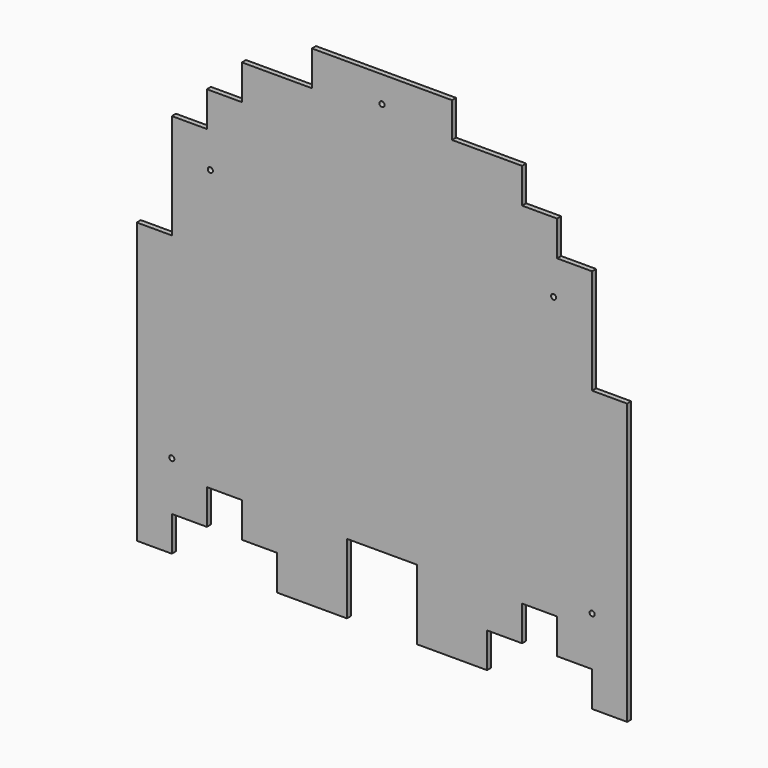
from build123d import *

# Parameters (mm, degrees)
F0_R     = 1.5875
F1_DEPTH = 3.175


with BuildPart() as f1:
    # F0 (on Front) → F1 (new body)
    with BuildSketch(Plane.XZ):
        Polygon((0, 174.171429), (0, 0), (21.771429, 0), (21.771429, 21.771429), (43.542857, 21.771429), (43.542857, 43.542857), (65.314286, 43.542857), (65.314286, 21.771429), (87.085714, 21.771429), (87.085714, 0), (130.628571, 0), (130.628571, 43.542857), (174.171429, 43.542857), (174.171429, 0), (217.714286, 0), (217.714286, 21.771429), (239.485714, 21.771429), (239.485714, 43.542857), (261.257143, 43.542857), (261.257143, 21.771429), (283.028571, 21.771429), (283.028571, 0), (304.8, 0), (304.8, 174.171429), (283.028571, 174.171429), (283.028571, 239.485714), (261.257143, 239.485714), (261.257143, 261.257143), (239.485714, 261.257143), (239.485714, 283.028571), (195.942857, 283.028571), (195.942857, 304.8), (108.857143, 304.8), (108.857143, 283.028571), (65.314286, 283.028571), (65.314286, 261.257143), (43.542857, 261.257143), (43.542857, 239.485714), (21.771429, 239.485714), (21.771429, 174.171429), align=None)
        with Locations((21.771429, 52.251429)):
            Circle(F0_R, mode=Mode.SUBTRACT)
        with Locations((283.028571, 52.251429)):
            Circle(F0_R, mode=Mode.SUBTRACT)
        with Locations((45.72, 217.714286)):
            Circle(F0_R, mode=Mode.SUBTRACT)
        with Locations((259.08, 217.714286)):
            Circle(F0_R, mode=Mode.SUBTRACT)
        with Locations((152.4, 288.471429)):
            Circle(F0_R, mode=Mode.SUBTRACT)
    extrude(amount=F1_DEPTH)


solid = f1.part
